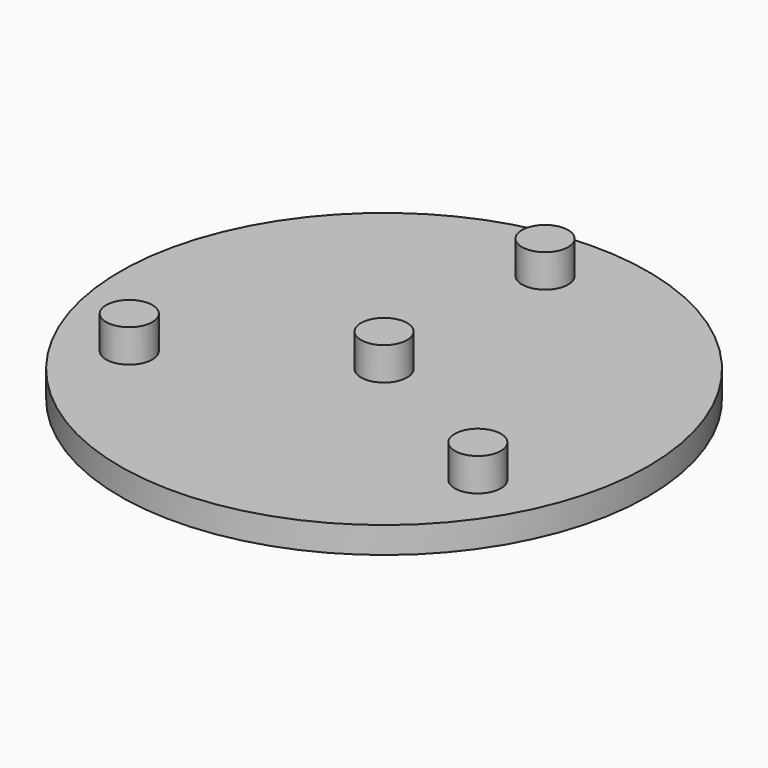
from build123d import *

# Parameters (mm, degrees)
F0_R     = 40
F1_DEPTH = 4
F2_R     = 3.5
F3_DEPTH = 5


with BuildPart() as f1:
    # F0 (on Top) → F1 (new body)
    with BuildSketch(Plane.XY):
        Circle(F0_R)
    extrude(amount=-F1_DEPTH)

    # F2 (on face) → F3 (join)
    with BuildSketch(Plane.XY):
        Circle(F2_R)
        with Locations((0, 30.5)):
            Circle(F2_R)
        with Locations((-26.413775, -15.25)):
            Circle(F2_R)
        with Locations((26.413775, -15.25)):
            Circle(F2_R)
    extrude(amount=F3_DEPTH)


solid = f1.part
